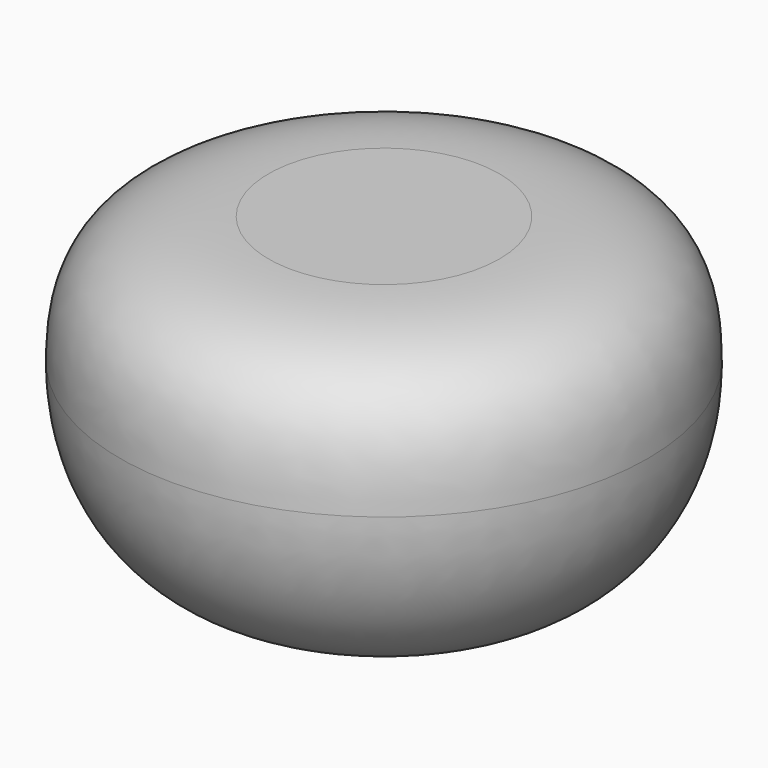
from build123d import *

# Parameters (mm, degrees)
F2_DEPTH  = 6.4135
F1_W      = 4.572
F1_H      = 2.794
F3_DEPTH  = 3.556
F5_W      = 5.2343517082
F5_H      = 2
F6_DEPTH  = 23
F7_W      = 1.3345703483
F7_H      = 1.3466473902
F10_DEPTH = 12.5
F5_W_2    = 2
F5_H_2    = 13.227
F11_DEPTH = 2
F5_W_3    = 12.4850876164
F12_DEPTH = 1


with BuildPart() as f2:
    # F1 (on Front) → F2 (new body, symmetric)
    with BuildSketch(Plane.XZ):
        Polygon((-17.018, -11.176), (-17.018, -25.818), (5.842, -25.818), (5.842, -11.176), (10.668, -11.176), (10.668, -8.636), (5.842, -8.636), (5.842, 0), (2.286, 0), (-2.286, 0), (-5.842, 0), (-5.842, -4.318), (-17.018, -4.318), (-17.018, -8.636), (-22.098, -8.636), (-22.098, -11.176), align=None)
    extrude(amount=F2_DEPTH, both=True)

    # F1 (on Front) → F3 (join, symmetric)
    with BuildSketch(Plane.XZ):
        with Locations((0, 1.397)):
            Rectangle(F1_W, F1_H)
    extrude(amount=F3_DEPTH, both=True)


with BuildPart() as f4:
    # F0 (on Front) → F4 (revolve)
    with BuildSketch(Plane.XZ):
        with BuildLine():
            Line((15.8240472745, -23), (0, -23))
            Line((0, -23), (0, -26))
            Line((0, -26), (16.3240472745, -26))
            add(Edge.make_bspline(
                [(16.3240472745, -26), (27.5893621147, -26), (37.3240472745, -15.4061496661), (37.3240472745, 0)],
                knots=[0, 0, 0, 0, 33.4215499341, 33.4215499341, 33.4215499341, 33.4215499341], degree=3))
            Line((37.3240472745, 0), (35.8240472745, 0))
            Line((35.8240472745, 0), (35.8240472745, -1.5))
            Line((35.8240472745, -1.5), (34.2475925575, -1.5))
            add(Edge.make_bspline(
                [(15.8240472745, -23), (27.3672380169, -23), (33.5058766717, -9.2231405476), (34.2475925575, -1.5)],
                knots=[0, 0, 0, 0, 27.6189715084, 27.6189715084, 27.6189715084, 27.6189715084], degree=3))
        make_face()
    revolve(axis=Axis((0, 0, 12.485653162), (0, 0, 1)))

    # F5 (on face) → F6 (join, through all)
    with BuildSketch(Plane.XY.offset(-23)):
        with BuildLine():
            ThreePointArc((-13.2743395276, -8.6135), (-13.8611621273, -7.6333908997), (-14.3757465857, -6.6135))
            Line((-14.3757465857, -6.6135), (-17.218, -6.6135))
            Line((-17.218, -6.6135), (-17.218, -8.6135))
            Line((-17.218, -8.6135), (-13.2743395276, -8.6135))
        make_face()
        with BuildLine():
            Line((-11.6774393246, -8.6135), (-11.6774393246, -6.6135))
            Line((-11.6774393246, -6.6135), (-14.3757465857, -6.6135))
            ThreePointArc((-14.3757465857, -6.6135), (-13.8611621273, -7.6333908997), (-13.2743395276, -8.6135))
            Line((-13.2743395276, -8.6135), (-11.6774393246, -8.6135))
        make_face()
        with Locations((3.4248241459, -7.6135)):
            Rectangle(F5_W, F5_H)
        with Locations((3.4248241459, 7.6135)):
            Rectangle(F5_W, F5_H)
        with BuildLine():
            ThreePointArc((-13.2743395276, 8.6135), (-13.8611621273, 7.6333908997), (-14.3757465857, 6.6135))
            Line((-14.3757465857, 6.6135), (-11.6774393246, 6.6135))
            Line((-11.6774393246, 6.6135), (-11.6774393246, 8.6135))
            Line((-11.6774393246, 8.6135), (-13.2743395276, 8.6135))
        make_face()
        with BuildLine():
            Line((-17.218, 6.6135), (-14.3757465857, 6.6135))
            ThreePointArc((-14.3757465857, 6.6135), (-13.8611621273, 7.6333908997), (-13.2743395276, 8.6135))
            Line((-13.2743395276, 8.6135), (-17.218, 8.6135))
            Line((-17.218, 8.6135), (-17.218, 6.6135))
        make_face()
    extrude(amount=F6_DEPTH)

    # F5 (on face) → F11 (join)
    with BuildSketch(Plane.XY.offset(-23)):
        with Locations((7.042, 0)):
            Rectangle(F5_W_2, F5_H_2)
        with Locations((7.042, -7.6135)):
            Rectangle(F5_W_2, F5_H)
        with Locations((7.042, 7.6135)):
            Rectangle(F5_W_2, F5_H)
    extrude(amount=F11_DEPTH)

    # F5 (on face) → F12 (join)
    with BuildSketch(Plane.XY.offset(-23)):
        with Locations((-5.4348955164, -7.6135)):
            Rectangle(F5_W_3, F5_H)
        with Locations((-5.4348955164, 7.6135)):
            Rectangle(F5_W_3, F5_H)
        Polygon((-17.218, -8.6135), (-17.218, -6.6135), (-17.218, 6.6135), (-17.218, 8.6135), (-19.218, 8.6135), (-19.218, -8.6135), align=None)
    extrude(amount=F12_DEPTH)


with BuildPart() as f8:
    # F7 (on Front) → F8 (revolve)
    with BuildSketch(Plane.XZ):
        with BuildLine():
            Line((16.3240472745, 18), (0, 18))
            Line((0, 18), (0, 15))
            Line((0, 15), (15.3947036039, 15))
            add(Edge.make_bspline(
                [(15.3947036039, 15), (31.7632231187, 15), (34.3240472745, 6.470025909), (34.3240472745, 0)],
                knots=[0, 0, 0, 0, 24.1520196216, 24.1520196216, 24.1520196216, 24.1520196216], degree=3))
            Line((34.3240472745, 0), (35.6586176228, 0))
            Line((35.6586176228, 0), (37.3240472745, 0))
            add(Edge.make_bspline(
                [(16.3240472745, 18), (34.9560443224, 18), (37.3240472745, 9.3534307705), (37.3240472745, 0)],
                knots=[0, 0, 0, 0, 27.6586333719, 27.6586333719, 27.6586333719, 27.6586333719], degree=3))
        make_face()
        with Locations((34.9913324486, -0.6733236951)):
            Rectangle(F7_W, F7_H)
    revolve(axis=Axis((0, 0, 12.485653162), (0, 0, 1)))

    # F9 (on Front) → F10 (join, symmetric)
    with BuildSketch(Plane.XZ):
        Polygon((-7.273943428, 4.5290855931), (-3.81, 4.5290855931), (-3.81, 8.382), (3.81, 8.382), (3.81, 4.5290855931), (7.273943428, 4.5290855931), (7.273943428, 17.0536525548), (3.81, 17.0536525548), (3.81, 14.522107318), (-3.81, 14.522107318), (-3.81, 17.0536525548), (-7.273943428, 17.0536525548), align=None)
    extrude(amount=F10_DEPTH, both=True)


solid = Compound([f2.part, f4.part, f8.part])
